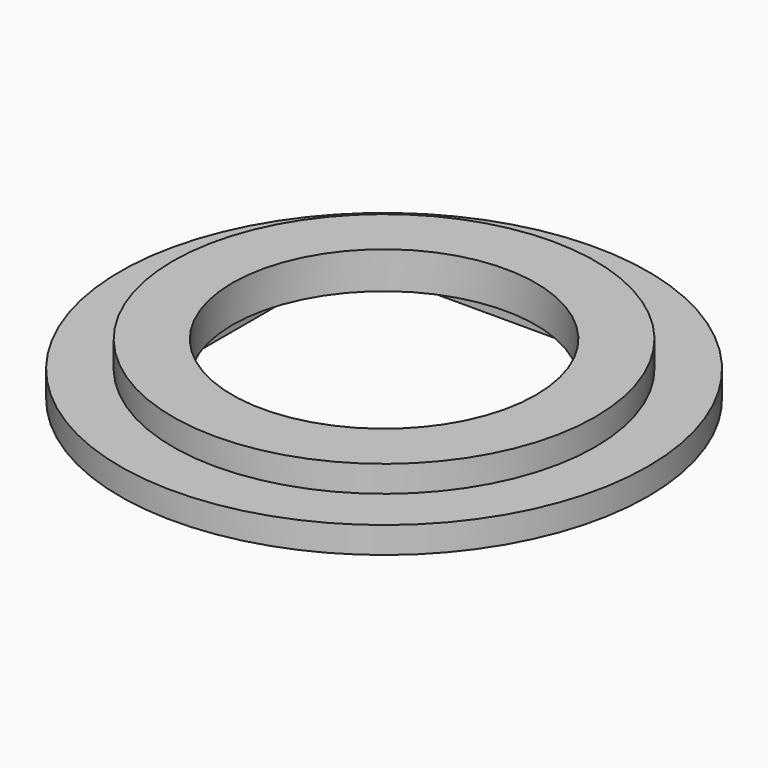
from build123d import *

# Parameters (mm, degrees)
F0_R     = 50
F0_R_2   = 40
F0_R_3   = 28.75
F1_DEPTH = 5
F2_DEPTH = 10
F3_W     = 62
F3_H     = 62
F3_R     = 28.75
F4_DEPTH = 3


with BuildPart() as f1:
    # F0 (on Top) → F1 (new body)
    with BuildSketch(Plane.XY):
        Circle(F0_R)
        Circle(F0_R_2, mode=Mode.SUBTRACT)
        Circle(F0_R_2)
        Circle(F0_R_3, mode=Mode.SUBTRACT)
    extrude(amount=F1_DEPTH)

    # F0 (on Top) → F2 (join)
    with BuildSketch(Plane.XY):
        Circle(F0_R_2)
        Circle(F0_R_3, mode=Mode.SUBTRACT)
    extrude(amount=F2_DEPTH)

    # F3 (on face) → F4 (cut)
    with BuildSketch(Plane(origin=(0, 0, 0), x_dir=(1, 0, 0), z_dir=(0, 0, -1))):
        Rectangle(F3_W, F3_H)
        Circle(F3_R, mode=Mode.SUBTRACT)
    extrude(amount=-F4_DEPTH, mode=Mode.SUBTRACT)


solid = f1.part
